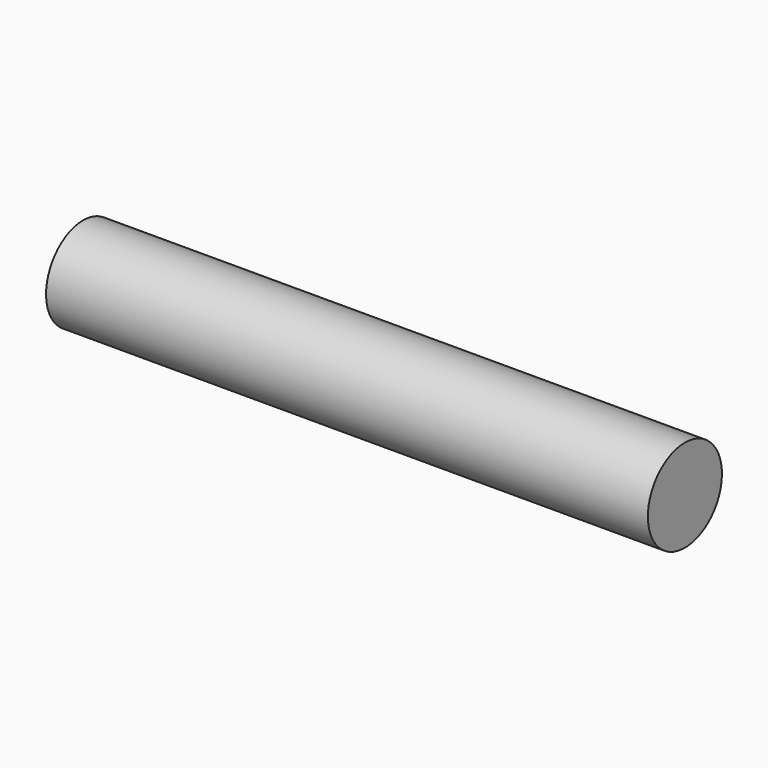
from build123d import *

# Parameters (mm, degrees)
F0_W     = 13
F0_H     = 1
F2_SCALE = 0.5


with BuildPart() as f1:
    # F0 (on Front) → F1 (revolve)
    with BuildSketch(Plane.XZ):
        with Locations((0, 0.5)):
            Rectangle(F0_W, F0_H)
    revolve(axis=Axis((0, 0, 0), (1, 0, 0)))


with BuildPart() as f1_1:
    # F2: moved
    add(f1.part.scale(F2_SCALE))


solid = f1_1.part
